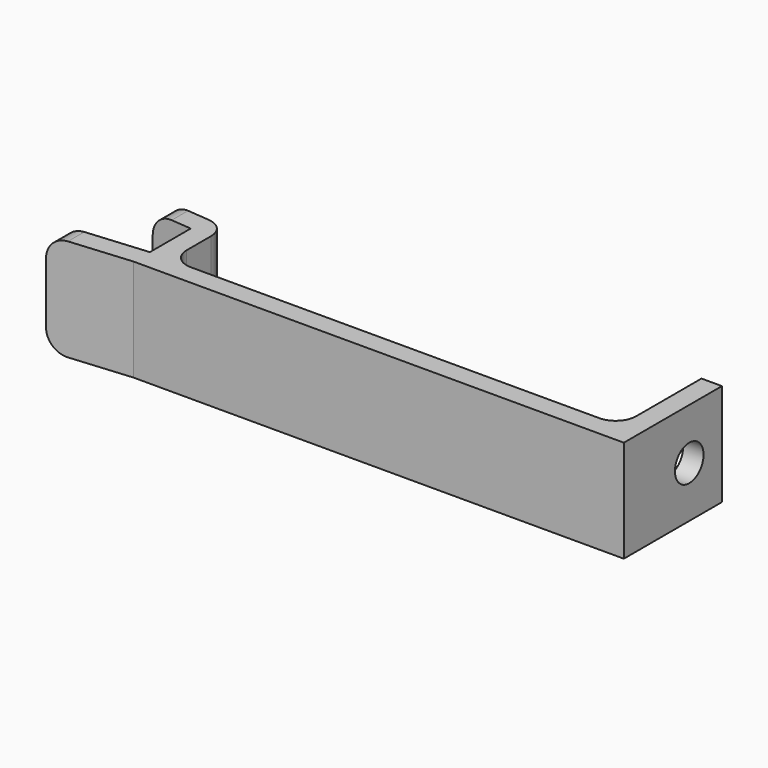
from build123d import *

# Parameters (mm, degrees)
F1_DEPTH = 10
F2_R     = 2
F4_D     = 3.5
F4_DEPTH = 2.001


with BuildPart() as f1:
    # F0 (on Top) → F1 (new body)
    with BuildSketch(Plane.XY):
        Polygon((0, 0), (48, 0), (48, 12), (46, 12), (46, 2), (2, 2), (2, 8.8250226729), (-4, 9.3499546541), (-4, 7.3499546541), (0, 7), (0, 2), (-8, 1.3000906918), (-8, -0.6999093082), align=None)
    extrude(amount=F1_DEPTH)

    # F2
    f2_edges = [f1.edges().sort_by_distance(p)[0] for p in [
        (-8, 0.300091, 10),
        (-8, 0.300091, 0),
        (-4, 8.349955, 0),
        (-4, 8.349955, 10),
        (2, 2, 5),
        (2, 8.825023, 5),
        (46, 2, 5),
    ]]
    fillet(f2_edges, radius=F2_R)

    # F4 (through all, one way)
    with BuildSketch(Plane(origin=(46, 0, 0), x_dir=(0, -1, 0), z_dir=(-1, 0, 0))):
        with Locations((-8, 5)):
            Circle(F4_D / 2)
    extrude(amount=-F4_DEPTH, mode=Mode.SUBTRACT)


solid = f1.part
